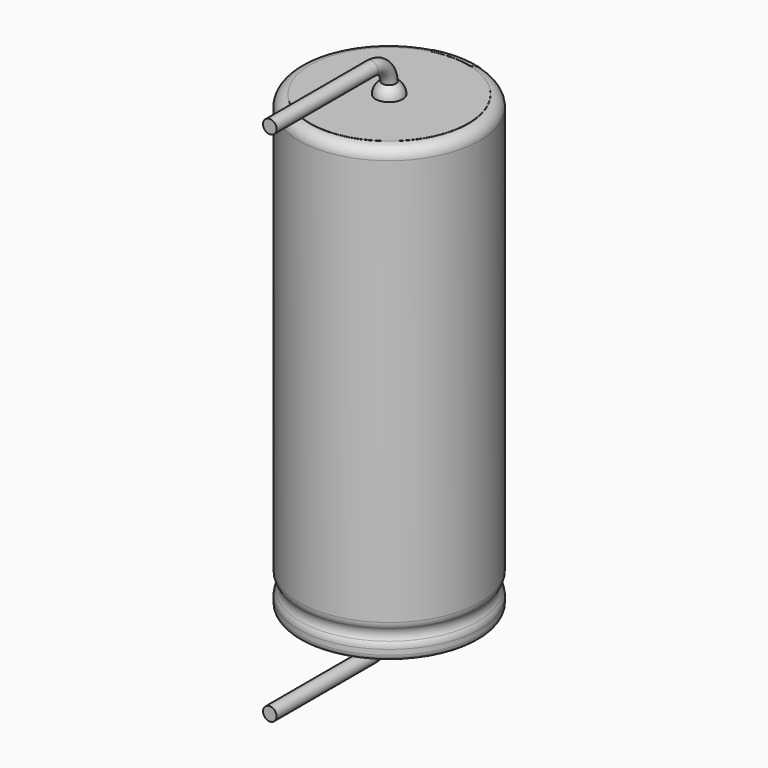
from build123d import *

# Parameters (mm, degrees)
SKETCH011_R             = 0.3
BODY007_PLACEMENT_ANGLE = 180
REVOLUTION001_ANGLE     = -30
POCKET_DEPTH            = 4.011
LINEARPATTERN_COUNT     = 5
LINEARPATTERN_PITCH     = 3.75
SKETCH012_R             = 3.5
PAD_DEPTH               = 0.01
BODY008_PLACEMENT_ANGLE = 90


with BuildPart() as lead:
    # AdditivePipe: sweep along a path in Sketch010
    with BuildLine(Plane(origin=(0, 0, 0), x_dir=(0, -1, 0), z_dir=(-1, 0, 0))) as additivepipe_path:
        Line((0, 20), (0, 20.43))
        ThreePointArc((0, 20.43), (0.292893, 21.137107), (1, 21.43))
        Line((1, 21.43), (6.6, 21.43))
    # Sketch011 → AdditivePipe (sweep)
    with BuildSketch(Plane.XY.offset(20)):
        Circle(SKETCH011_R)
    sweep(path=additivepipe_path.line)


with BuildPart() as obj1:
    # Body007 base: copy of Lead
    add(lead.part)


with BuildPart() as obj1_1:
    # Body007 placement: moved
    add(obj1.part.moved(Location((0, 0, 20))).rotate(Axis((0, 0, 20), (0, 1, 0)), BODY007_PLACEMENT_ANGLE))


with BuildPart() as polaritymarking:
    # Sketch005 → Revolution001 (revolve)
    with BuildSketch(Plane(origin=(0, 0, 0), x_dir=(-0.258819, 0.965926, 0), z_dir=(0.965926, 0.258819, 0))):
        with BuildLine():
            Line((3.51, 0.043526), (3.51, 20.01))
            ThreePointArc((3.51, 20.01), (3.863553, 19.863553), (4.01, 19.51))
            Line((4.01, 19.51), (4.01, 1.523941))
            ThreePointArc((4.01, 1.523941), (3.989134, 1.381006), (3.928278, 1.25))
            ThreePointArc((3.928278, 1.25), (3.853698, 1), (3.928278, 0.75))
            ThreePointArc((3.928278, 0.75), (3.989134, 0.618994), (4.01, 0.476059))
            Line((4.01, 0.476059), (4.01, 0.043526))
            ThreePointArc((4.01, 0.043526), (3.76, -0.206474), (3.51, 0.043526))
        make_face()
    revolve(axis=Axis((0, 0, 0), (0, 0, 1)), revolution_arc=REVOLUTION001_ANGLE)

    # Sketch013 → Pocket (cut, through all)
    with BuildSketch(Plane.XZ):
        Polygon((0.375, 2), (-0.375, 2), (-0.375, 3), (0, 3.5), (0.375, 3), align=None)
    pocket = extrude(amount=-POCKET_DEPTH, mode=Mode.SUBTRACT)

    # LinearPattern: Pocket ×5
    with Locations(*[(0, 0, i * LINEARPATTERN_PITCH) for i in range(1, LINEARPATTERN_COUNT)]):
        add(pocket, mode=Mode.SUBTRACT)


with BuildPart() as housing:
    # Sketch → Revolution (revolve)
    with BuildSketch(Plane.XZ):
        with BuildLine():
            Line((0, 20), (3.5, 20))
            ThreePointArc((4, 19.5), (3.853553, 19.853553), (3.5, 20))
            Line((4, 19.5), (4, 1.523941))
            ThreePointArc((3.918278, 1.25), (3.979134, 1.381006), (4, 1.523941))
            ThreePointArc((3.918278, 1.25), (3.843698, 1), (3.918278, 0.75))
            ThreePointArc((4, 0.476059), (3.979134, 0.618994), (3.918278, 0.75))
            Line((4, 0.476059), (4, 0.25))
            ThreePointArc((3.75, 0), (3.926777, 0.073223), (4, 0.25))
            Line((0, 0), (3.75, 0))
            Line((0, 20), (0, 0))
        make_face()
    revolve(axis=Axis((0, 0, 0), (0, 0, 1)))


with BuildPart() as fusion:
    # Sphere → Sphere (revolve)
    with BuildSketch(Plane.XZ):
        with BuildLine():
            ThreePointArc((0, -0.6), (0.6, 0), (0, 0.6))
            Line((0, 0.6), (0, -0.6))
        make_face()
    revolve(axis=Axis((0, 0, 0), (0, 0, 1)))

    # Sketch012 (on ShapeBinder) → Pad (new body)
    with BuildSketch(Plane(origin=(0, 0, 0), x_dir=(0, -1, 0), z_dir=(0, 0, 1))):
        Circle(SKETCH012_R)
    extrude(amount=PAD_DEPTH)


with BuildPart() as fusion_1:
    # Body008 placement: moved
    add(fusion.part.moved(Location((0, 0, 20))).rotate(Axis((0, 0, 20), (0, 0, -1)), BODY008_PLACEMENT_ANGLE))

    # Fusion: union obj1, Lead, PolarityMarking, Housing
    add(obj1_1.part)
    add(lead.part)
    add(polaritymarking.part)
    add(housing.part)


solid = fusion_1.part
